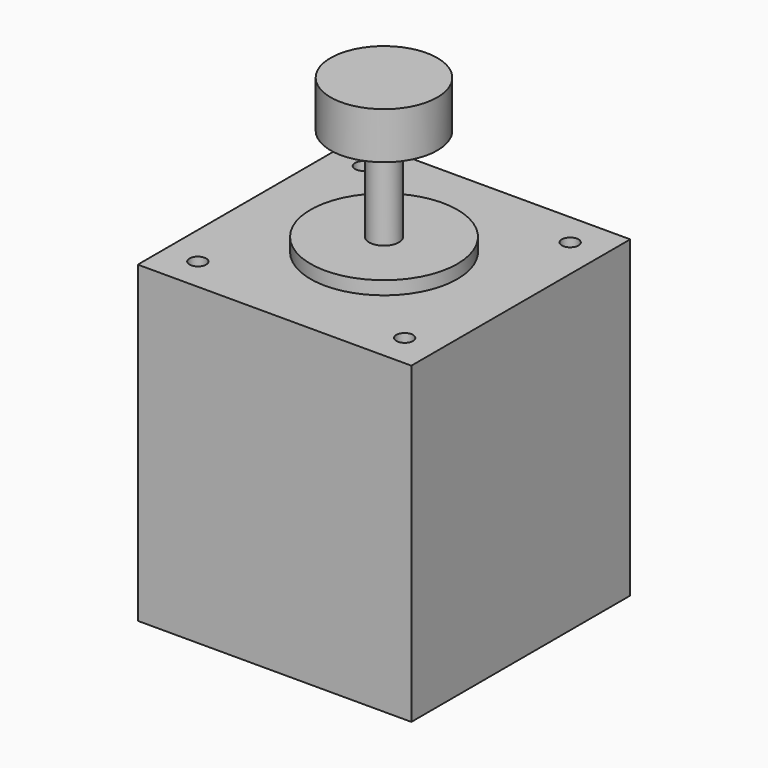
from build123d import *

# Parameters (mm, degrees)
F0_W     = 41
F0_H     = 41
F1_DEPTH = 47
F2_R     = 1.25
F3_DEPTH = 25
F4_R     = 11
F5_DEPTH = 2
F6_R     = 2.25
F7_DEPTH = 21
F8_R     = 8
F9_DEPTH = 7


with BuildPart() as f1:
    # F0 (on Top) → F1 (new body)
    with BuildSketch(Plane.XY):
        with Locations((20.5, 20.5)):
            Rectangle(F0_W, F0_H)
    extrude(amount=F1_DEPTH)

    # F2 (on face) → F3 (cut)
    with BuildSketch(Plane.XY.offset(47)):
        with Locations((5, 5)):
            Circle(F2_R)
        with Locations((36, 5)):
            Circle(F2_R)
        with Locations((36, 36)):
            Circle(F2_R)
        with Locations((5, 36)):
            Circle(F2_R)
    extrude(amount=-F3_DEPTH, mode=Mode.SUBTRACT)

    # F4 (on face) → F5 (join)
    with BuildSketch(Plane.XY.offset(47)):
        with Locations((20.5, 20.5)):
            Circle(F4_R)
    extrude(amount=F5_DEPTH)

    # F6 (on face) → F7 (join)
    with BuildSketch(Plane.XY.offset(49)):
        with Locations((20.5, 20.5)):
            Circle(F6_R)
    extrude(amount=F7_DEPTH)

    # F8 (on face) → F9 (join)
    with BuildSketch(Plane.XY.offset(70)):
        with Locations((20.5, 20.5)):
            Circle(F8_R)
    extrude(amount=-F9_DEPTH)


solid = f1.part
